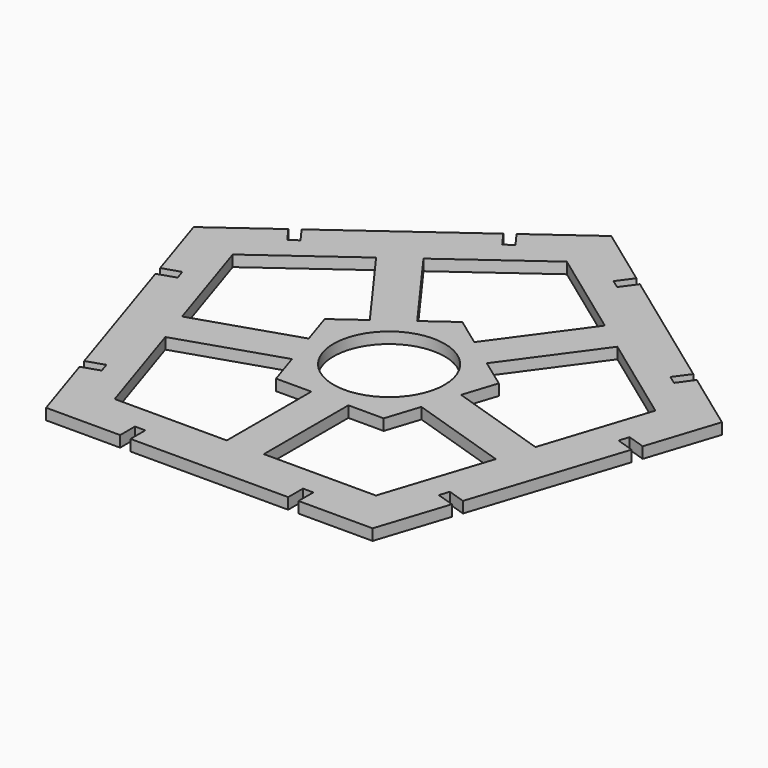
from build123d import *

# Parameters (mm, degrees)
F1_DEPTH = 3
F2_R     = 15
F3_DEPTH = 3


with BuildPart() as f1:
    # F0 (on Top) → F1 (new body)
    with BuildSketch(Plane.XY):
        Polygon((16.18034, 63.244295), (0, 75), (-16.18034, 63.244295), (-13.241414, 59.19921), (-15.506661, 57.553411), (-18.445587, 61.598496), (-52.883651, 36.577778), (-49.944725, 32.532693), (-52.209973, 30.886895), (-55.148899, 34.93198), (-71.329239, 23.176275), (-65.148899, 4.155144), (-60.393616, 5.700229), (-59.528369, 3.037271), (-64.283651, 1.492186), (-51.129481, -38.992186), (-46.374199, -37.447101), (-45.508951, -40.110059), (-50.264234, -41.655144), (-44.083894, -60.676275), (-24.083894, -60.676275), (-24.083894, -55.676275), (-21.283894, -55.676275), (-21.283894, -60.676275), (21.283894, -60.676275), (21.283894, -55.676275), (24.083894, -55.676275), (24.083894, -60.676275), (44.083894, -60.676275), (50.264234, -41.655144), (45.508951, -40.110059), (46.374199, -37.447101), (51.129481, -38.992186), (64.283651, 1.492186), (59.528369, 3.037271), (60.393616, 5.700229), (65.148899, 4.155144), (71.329239, 23.176275), (55.148899, 34.93198), (52.209973, 30.886895), (49.944725, 32.532693), (52.883651, 36.577778), (18.445587, 61.598496), (15.506661, 57.553411), (13.241414, 59.19921), align=None)
        Polygon((-57.063391, 18.54102), (0, 60), (57.063391, 18.54102), (35.267115, -48.54102), (-35.267115, -48.54102), align=None, mode=Mode.SUBTRACT)
    extrude(amount=F1_DEPTH)

    # F2 (on face) → F3 (join)
    with BuildSketch(Plane.XY.offset(3)):
        Polygon((5, -20), (14.530851, -20), (17.476045, -10.935622), (44.620168, -19.755283), (47.710338, -10.244717), (20.566215, -1.425057), (23.51141, 7.63932), (15.80079, 13.241414), (32.57678, 36.331584), (24.486611, 42.209436), (7.71062, 19.119266), (0, 24.72136), (-7.71062, 19.119266), (-24.486611, 42.209436), (-32.57678, 36.331584), (-15.80079, 13.241414), (-23.51141, 7.63932), (-20.566215, -1.425057), (-47.710338, -10.244717), (-44.620168, -19.755283), (-17.476045, -10.935622), (-14.530851, -20), (-5, -20), (-5, -48.54102), (5, -48.54102), align=None)
        Circle(F2_R, mode=Mode.SUBTRACT)
    extrude(amount=-F3_DEPTH)


solid = f1.part
